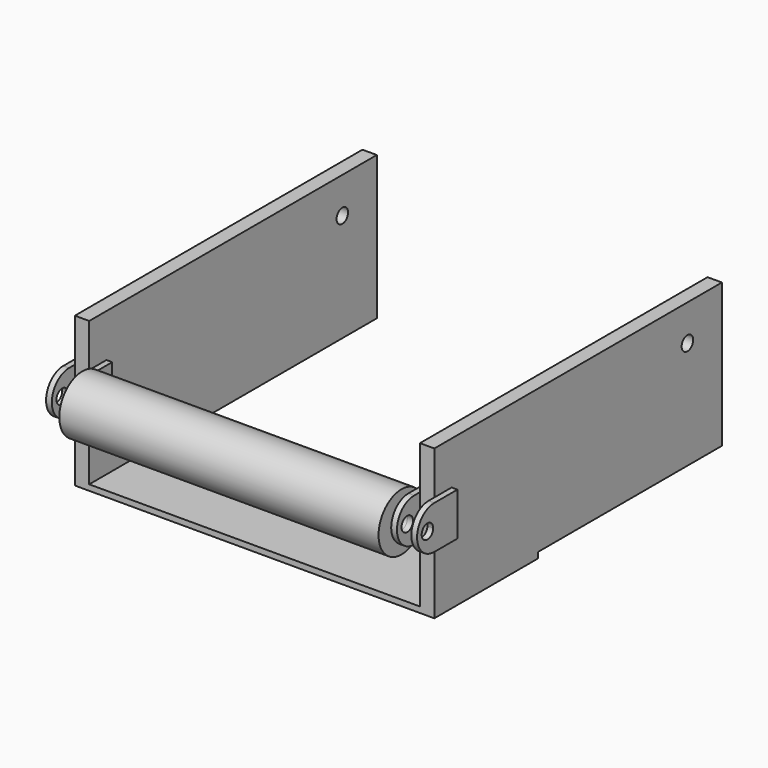
from build123d import *

# Parameters (mm, degrees)
F0_W      = 114.3
F0_H      = 5.08
F1_DEPTH  = 158.75
F2_W      = 12.7
F2_H      = 317.5
F3_DEPTH  = 127
F4_R      = 6.35
F5_DEPTH  = 5.08
F6_R      = 6.35
F7_DEPTH  = 5.08
F9_R      = 25.4
F10_DEPTH = 281.94
F11_R     = 6.35
F12_DEPTH = 327.66
F13_R     = 6.35
F14_DEPTH = 322.581


with BuildPart() as f1:
    # F0 (on Right) → F1 (new body, symmetric)
    with BuildSketch(Plane.YZ):
        Rectangle(F0_W, F0_H)
    extrude(amount=F1_DEPTH, both=True)

    # F2 (on face) → F3 (join)
    with BuildSketch(Plane.XY.offset(2.54)):
        with Locations((152.4, 101.6)):
            Rectangle(F2_W, F2_H)
        with Locations((-152.4, 101.6)):
            Rectangle(F2_W, F2_H)
    extrude(amount=F3_DEPTH)

    # F4 (on face) → F5 (join)
    with BuildSketch(Plane.YZ.offset(-146.05)):
        with BuildLine():
            Line((-38.1, 91.44), (-63.5, 91.44))
            ThreePointArc((-63.5, 91.44), (-82.55, 72.39), (-63.5, 53.34))
            Line((-63.5, 53.34), (-38.1, 53.34))
            Line((-38.1, 53.34), (-38.1, 91.44))
        make_face()
        with Locations((-71.12, 72.39)):
            Circle(F4_R, mode=Mode.SUBTRACT)
    extrude(amount=F5_DEPTH)

    # F6 (on face) → F7 (join)
    with BuildSketch(Plane(origin=(-158.75, 0, 0), x_dir=(0, -1, 0), z_dir=(-1, 0, 0))):
        with BuildLine():
            Line((63.5, 91.44), (38.1, 91.44))
            Line((38.1, 91.44), (38.1, 53.34))
            Line((38.1, 53.34), (63.5, 53.34))
            ThreePointArc((63.5, 53.34), (82.55, 72.39), (63.5, 91.44))
        make_face()
        with Locations((71.12, 72.39)):
            Circle(F6_R, mode=Mode.SUBTRACT)
    extrude(amount=F7_DEPTH)

    # F8: F1 across plane


with BuildPart() as f1_1:
    add(f1.part)
    add(f1.part.mirror(Plane.YZ))

    # F9 (on face) → F10 (join)
    with BuildSketch(Plane.YZ.offset(-140.97)):
        with Locations((-71.12, 72.39)):
            Circle(F9_R)
    extrude(amount=F10_DEPTH)

    # F11 (on face) → F12 (cut)
    with BuildSketch(Plane.YZ.offset(163.83)):
        with Locations((-71.12, 72.39)):
            Circle(F11_R)
    extrude(amount=-F12_DEPTH, mode=Mode.SUBTRACT)

    # F13 (on face) → F14 (cut, through all)
    with BuildSketch(Plane.YZ.offset(158.75)):
        with Locations((222.25, 97.79)):
            Circle(F13_R)
    extrude(amount=-F14_DEPTH, mode=Mode.SUBTRACT)


solid = f1_1.part
